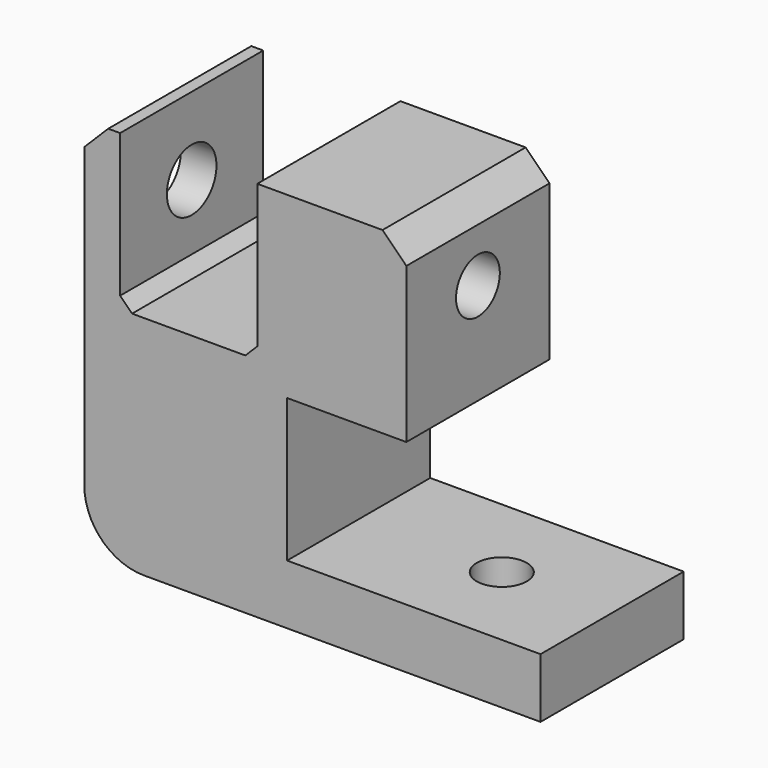
from build123d import *

# Parameters (mm, degrees)
F1_DEPTH = 15
F2_R     = 2.1
F3_DEPTH = 5
F4_R     = 2.295
F5_DEPTH = 38.251
F6_R     = 2.6
F6_R_2   = 2.295
F7_DEPTH = 3
F8_SIZE  = 2
F9_SIZE  = 1


with BuildPart() as f1:
    # F0 (on Front) → F1 (new body)
    with BuildSketch(Plane.XZ):
        with BuildLine():
            ThreePointArc((0, 5), (1.464466, 1.464466), (5, 0))
            Line((5, 0), (38.25, 0))
            Line((38.25, 0), (38.25, 5))
            Line((38.25, 5), (17, 5))
            Line((17, 5), (17, 17))
            Line((17, 17), (27, 17))
            Line((27, 17), (27, 32))
            Line((27, 32), (14.5, 32))
            Line((14.5, 32), (14.5, 19))
            Line((14.5, 19), (3, 19))
            Line((3, 19), (3, 32))
            Line((3, 32), (0, 32))
            Line((0, 32), (0, 5))
        make_face()
    extrude(amount=F1_DEPTH)

    # F2 (on face) → F3 (cut, through all)
    with BuildSketch(Plane(origin=(0, 0, 0), x_dir=(1, 0, 0), z_dir=(0, 0, -1))):
        with Locations((29, 7.5)):
            Circle(F2_R)
    extrude(amount=-F3_DEPTH, mode=Mode.SUBTRACT)

    # F4 (on face) → F5 (cut, through all)
    with BuildSketch(Plane(origin=(0, 0, 0), x_dir=(0, -1, 0), z_dir=(-1, 0, 0))):
        with Locations((7.5, 25.5)):
            Circle(F4_R)
    extrude(amount=-F5_DEPTH, mode=Mode.SUBTRACT)

    # F6 (on face) → F7 (cut, through all)
    with BuildSketch(Plane(origin=(0, 0, 0), x_dir=(0, -1, 0), z_dir=(-1, 0, 0))):
        with Locations((7.5, 25.5)):
            Circle(F6_R)
        with Locations((7.5, 25.5)):
            Circle(F6_R_2, mode=Mode.SUBTRACT)
    extrude(amount=-F7_DEPTH, mode=Mode.SUBTRACT)

    # F8
    f8_edges = [f1.edges().sort_by_distance(p)[0] for p in [
        (27, -7.5, 32),
        (0, -7.5, 32),
    ]]
    chamfer(f8_edges, length=F8_SIZE)

    # F9
    f9_edges = [f1.edges().sort_by_distance(p)[0] for p in [
        (3, -7.5, 19),
        (14.5, -7.5, 19),
    ]]
    chamfer(f9_edges, length=F9_SIZE)


solid = f1.part
